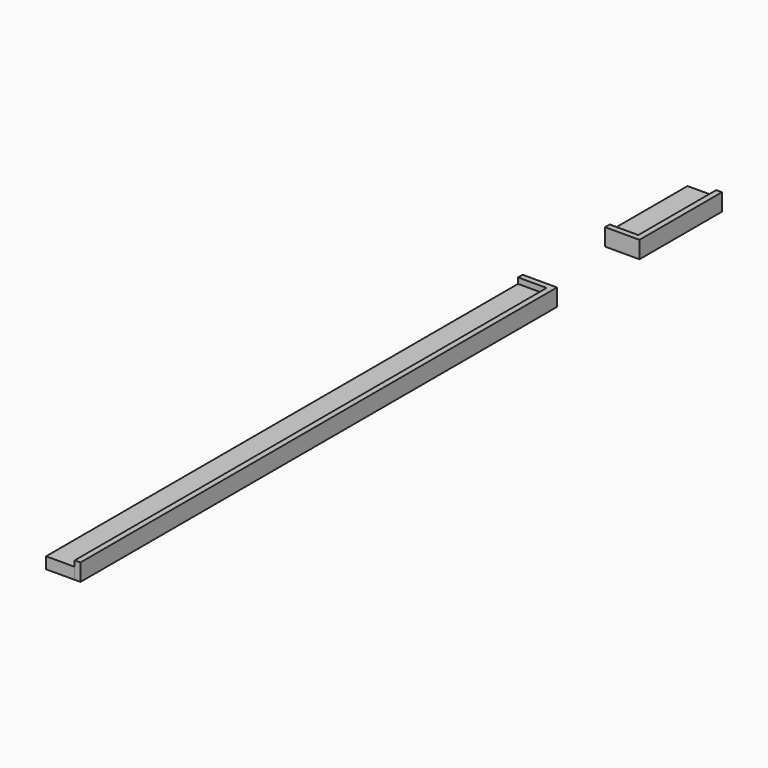
from build123d import *

# Parameters (mm, degrees)
F0_W     = 0.79375
F0_H     = 13.49375
F0_W_2   = 3.96875
F0_H_2   = 0.79375
F1_DEPTH = 2.38125
F0_H_3   = 81.75625
F2_DEPTH = 1.5875


with BuildPart() as f1:
    # F0 (on Top) → F1 (new body)
    with BuildSketch(Plane.XY):
        with Locations((-11.6930281506, 49.8824233443)):
            Rectangle(F0_W, F0_H)
        with Locations((-14.0742781506, 42.7386733443)):
            Rectangle(F0_W_2, F0_H_2)
        with Locations((-11.6930281506, 42.7386733443)):
            Rectangle(F0_W, F0_H_2)
    extrude(amount=F1_DEPTH)


with BuildPart() as f1b:
    # F0 (on Top) → F1, piece 2 (new body)
    with BuildSketch(Plane.XY):
        with Locations((-11.6930281506, -13.6175766557)):
            Rectangle(F0_W, F0_H_3)
        with Locations((-14.0742781506, 27.6574233443)):
            Rectangle(F0_W_2, F0_H_2)
        with Locations((-11.6930281506, 27.6574233443)):
            Rectangle(F0_W, F0_H_2)
    extrude(amount=F1_DEPTH)


with BuildPart() as f2:
    # F0 (on Top) → F2 (new body)
    with BuildSketch(Plane.XY):
        with Locations((-14.0742781506, 49.8824233443)):
            Rectangle(F0_W_2, F0_H)
    extrude(amount=F2_DEPTH)


with BuildPart() as f2b:
    # F0 (on Top) → F2, piece 2 (new body)
    with BuildSketch(Plane.XY):
        with Locations((-14.0742781506, -13.6175766557)):
            Rectangle(F0_W_2, F0_H_3)
    extrude(amount=F2_DEPTH)


solid = Compound([f1.part, f1b.part, f2.part, f2b.part])
